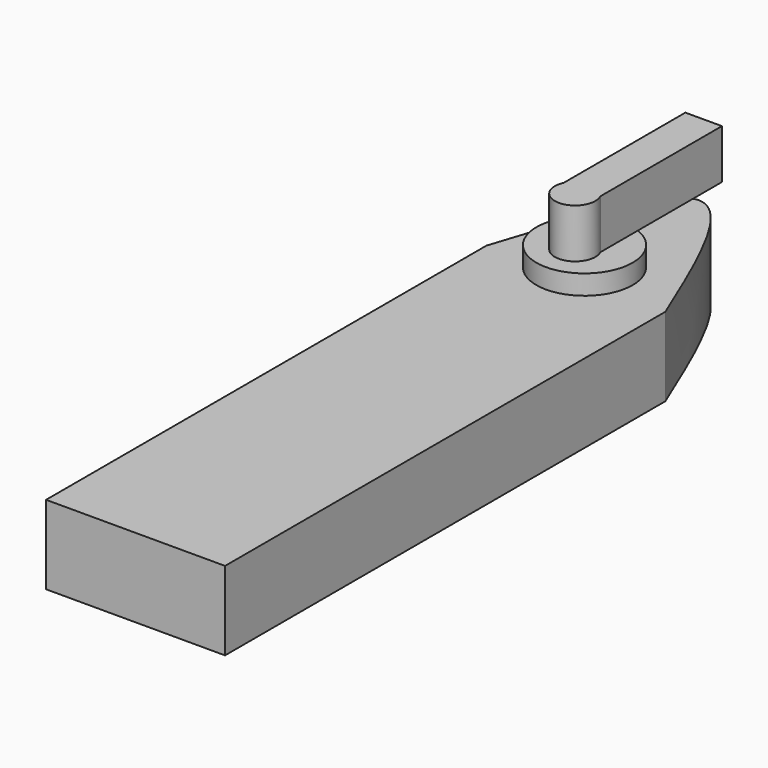
from build123d import *

# Parameters (mm, degrees)
F0_W     = 18.1707702577
F0_H     = 55.8800026774
F1_DEPTH = 8
F2_R     = 4.8885197861
F3_DEPTH = 2
F4_W     = 3.7123076618
F4_H     = 15.4353883117
F5_DEPTH = 5


with BuildPart() as f1:
    # F0 (on Top) → F1 (new body)
    with BuildSketch(Plane.XY):
        with Locations((-27.7446154505, -4.6892315149)):
            Rectangle(F0_W, F0_H)
        with BuildLine():
            add(Edge.make_bspline(
                [(-36.8300005794, 23.2507698238), (-34.2214483668, 31.493687892), (-28.9456329612, 48.1650483199), (-22.1133750602, 31.6169136543), (-18.6592303216, 23.2507698238)],
                knots=[0, 0, 0, 0, 0.4944358383, 1, 1, 1, 1], degree=3))
            Line((-36.8300005794, 23.2507698238), (-18.6592303216, 23.2507698238))
        make_face()
    extrude(amount=F1_DEPTH)

    # F2 (on face) → F3 (join)
    with BuildSketch(Plane.XY.offset(8)):
        with Locations((-28.4284614027, 25.2046156675)):
            Circle(F2_R)
    extrude(amount=F3_DEPTH)

    # F4 (on face) → F5 (join)
    with BuildSketch(Plane.XY.offset(10)):
        with Locations((-28.5261552781, 32.7269257978)):
            Rectangle(F4_W, F4_H)
        with BuildLine():
            Line((-26.6700014472, 25.0092316419), (-30.382309109, 25.0092316419))
            ThreePointArc((-30.382309109, 25.0092316419), (-28.5261552781, 22.07613801), (-26.6700014472, 25.0092316419))
        make_face()
    extrude(amount=F5_DEPTH)


solid = f1.part
